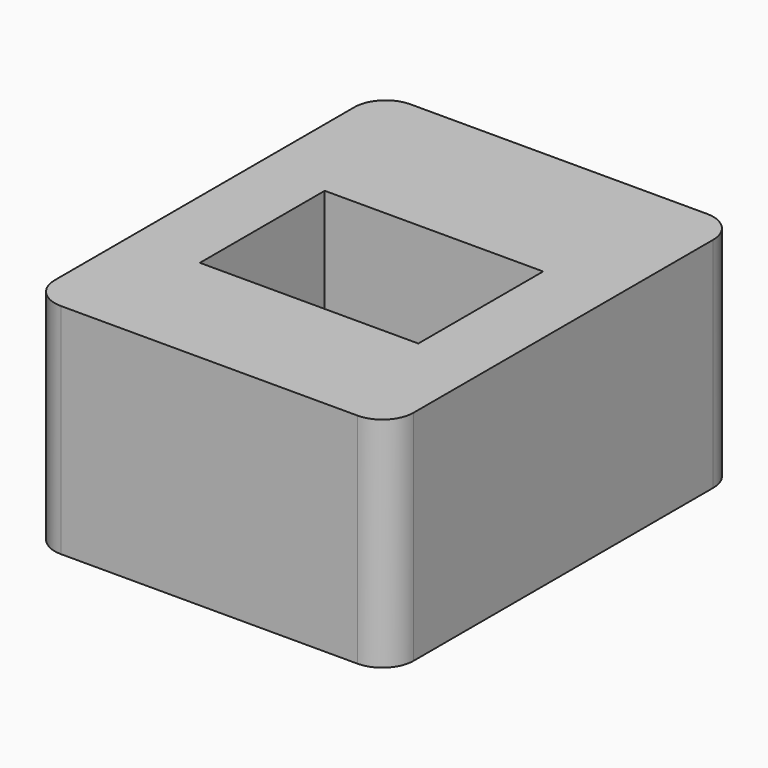
from build123d import *

# Parameters (mm, degrees)
F0_W     = 11.5
F0_H     = 14
F0_W_2   = 7
F0_H_2   = 5
F1_DEPTH = 7
F2_R     = 1


with BuildPart() as f1:
    # F0 (on Top) → F1 (new body)
    with BuildSketch(Plane.XY):
        with Locations((0, 0.5)):
            Rectangle(F0_W, F0_H)
        Rectangle(F0_W_2, F0_H_2, mode=Mode.SUBTRACT)
    extrude(amount=F1_DEPTH)

    # F2
    f2_edges = [f1.edges().sort_by_distance(p)[0] for p in [
        (-5.75, -6.5, 3.5),
        (5.75, -6.5, 3.5),
        (5.75, 7.5, 3.5),
        (-5.75, 7.5, 3.5),
    ]]
    fillet(f2_edges, radius=F2_R)


solid = f1.part
